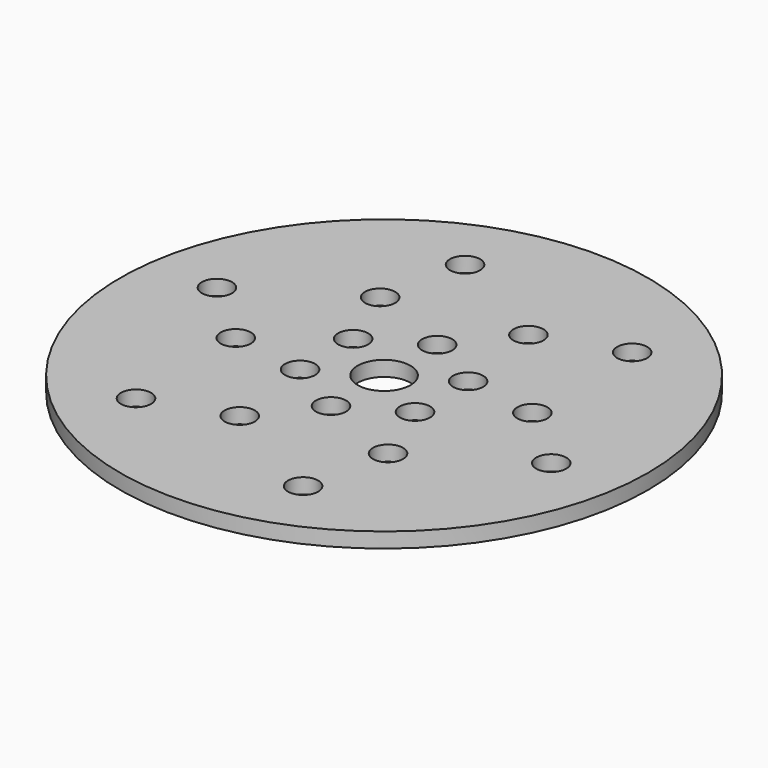
from build123d import *

# Parameters (mm, degrees)
F0_R     = 350
F0_R_2   = 20
F0_R_3   = 35
F1_DEPTH = 20


with BuildPart() as f1:
    # F0 (on Top) → F1 (new body)
    with BuildSketch(Plane.XY):
        Circle(F0_R)
        with Locations((-168.410354, -200.703644)):
            Circle(F0_R_2, mode=Mode.SUBTRACT)
        with Locations((-59.853525, -164.446209)):
            Circle(F0_R_2, mode=Mode.SUBTRACT)
        with Locations((-172.341357, -30.388431)):
            Circle(F0_R_2, mode=Mode.SUBTRACT)
        with Locations((-76.210236, -44)):
            Circle(F0_R_2, mode=Mode.SUBTRACT)
        with Locations((89.609278, -246.199467)):
            Circle(F0_R_2, mode=Mode.SUBTRACT)
        with Locations((0, -88)):
            Circle(F0_R_2, mode=Mode.SUBTRACT)
        with Locations((112.487832, -134.057778)):
            Circle(F0_R_2, mode=Mode.SUBTRACT)
        with Locations((76.210236, -44)):
            Circle(F0_R_2, mode=Mode.SUBTRACT)
        with Locations((258.019631, -45.495823)):
            Circle(F0_R_2, mode=Mode.SUBTRACT)
        with Locations((-258.019631, 45.495823)):
            Circle(F0_R_2, mode=Mode.SUBTRACT)
        with Locations((-76.210236, 44)):
            Circle(F0_R_2, mode=Mode.SUBTRACT)
        with Locations((-112.487832, 134.057778)):
            Circle(F0_R_2, mode=Mode.SUBTRACT)
        with Locations((-89.609278, 246.199467)):
            Circle(F0_R_2, mode=Mode.SUBTRACT)
        Circle(F0_R_3, mode=Mode.SUBTRACT)
        with Locations((76.210236, 44)):
            Circle(F0_R_2, mode=Mode.SUBTRACT)
        with Locations((172.341357, 30.388431)):
            Circle(F0_R_2, mode=Mode.SUBTRACT)
        with Locations((0, 88)):
            Circle(F0_R_2, mode=Mode.SUBTRACT)
        with Locations((59.853525, 164.446209)):
            Circle(F0_R_2, mode=Mode.SUBTRACT)
        with Locations((168.410354, 200.703644)):
            Circle(F0_R_2, mode=Mode.SUBTRACT)
    extrude(amount=F1_DEPTH)


solid = f1.part
